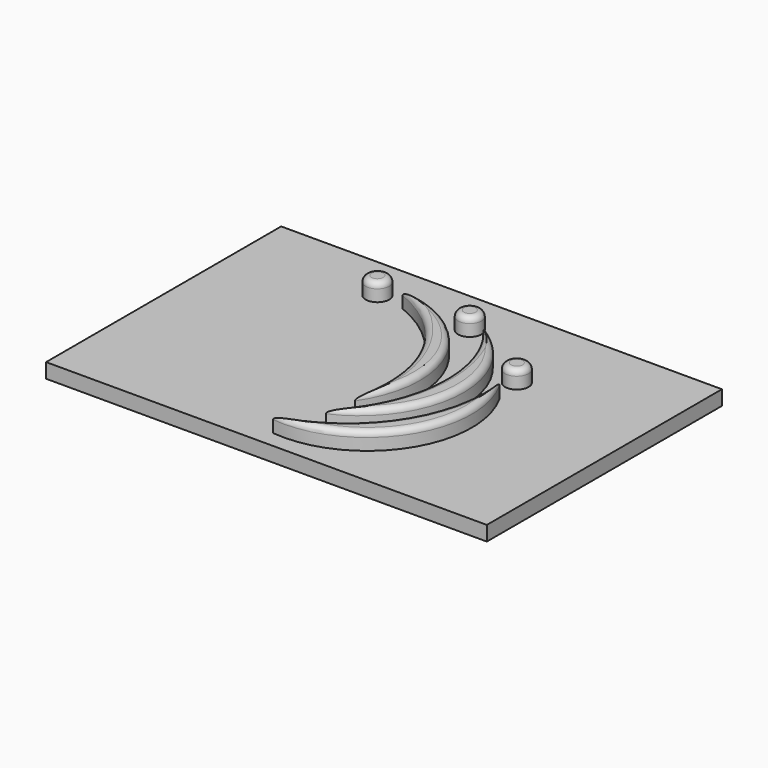
from build123d import *

# Parameters (mm, degrees)
F0_W     = 75
F0_H     = 50
F1_DEPTH = 2.5
F2_R     = 2
F3_DEPTH = 3
F4_R     = 1


with BuildPart() as f1:
    # F0 (on Top) → F1 (new body)
    with BuildSketch(Plane.XY):
        Rectangle(F0_W, F0_H)
    extrude(amount=F1_DEPTH)

    # F2 (on face) → F3 (join)
    with BuildSketch(Plane.XY.offset(2.5)):
        with BuildLine():
            ThreePointArc((16.155995, 4.368282), (12.782578, -12.351987), (-1.206584, -22.111632))
            ThreePointArc((-1.206584, -22.111632), (15.552751, -14.168357), (16.155995, 4.368282))
        make_face()
        with BuildLine():
            ThreePointArc((4.739505, 15.229804), (10.170701, -0.881285), (3.233162, -16.403387))
            ThreePointArc((3.233162, -16.403387), (13.70995, -1.049821), (4.739505, 15.229804))
        make_face()
        with BuildLine():
            ThreePointArc((-10.086076, 16.577584), (2.107223, 5.36856), (3.946693, -11.091548))
            ThreePointArc((3.946693, -11.091548), (5.102492, 6.887651), (-10.086076, 16.577584))
        make_face()
        with Locations((-15.12387, 17.504403)):
            Circle(F2_R)
        with Locations((0.696165, 17.370397)):
            Circle(F2_R)
        with Locations((15.046059, 9.442278)):
            Circle(F2_R)
    extrude(amount=F3_DEPTH)

    # F4
    f4_edges = [f1.edges().sort_by_distance(p)[0] for p in [
        (-17.12387, 17.504403, 5.5),
        (-1.303835, 17.370397, 5.5),
        (13.046059, 9.442278, 5.5),
        (15.552751, -14.168357, 5.5),
        (12.782578, -12.351987, 5.5),
        (13.70995, -1.049821, 5.5),
        (10.170701, -0.881285, 5.5),
        (5.102492, 6.887651, 5.5),
        (2.107223, 5.36856, 5.5),
    ]]
    fillet(f4_edges, radius=F4_R)


solid = f1.part
